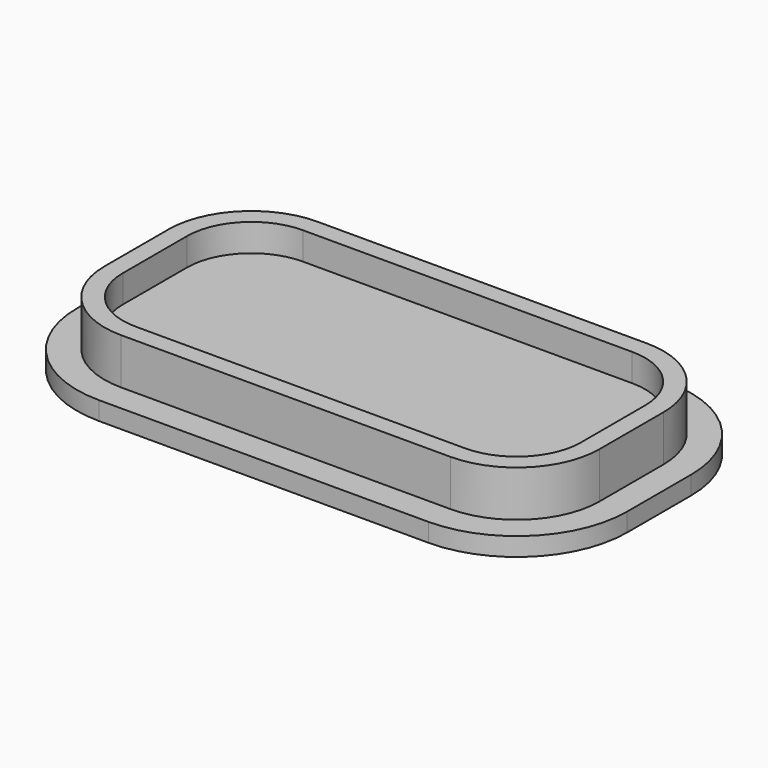
from build123d import *

# Parameters (mm, degrees)
F0_W     = 53.8
F0_H     = 26.7
F1_DEPTH = 5
F2_R     = 9
F3_T     = -2
F5_DEPTH = 2


with BuildPart() as f1:
    # F0 (on Top) → F1 (new body)
    with BuildSketch(Plane.XY):
        with Locations((-9.468303, 2.791487)):
            Rectangle(F0_W, F0_H)
    extrude(amount=F1_DEPTH)

    # F2
    f2_edges = [f1.edges().sort_by_distance(p)[0] for p in [
        (-36.368303, 16.141487, 2.5),
        (17.431697, 16.141487, 2.5),
        (17.431697, -10.558513, 2.5),
        (-36.368303, -10.558513, 2.5),
    ]]
    fillet(f2_edges, radius=F2_R)

    # F3
    f3_openings = [f1.faces().sort_by_distance(p)[0] for p in [
        (-9.468303, 2.791487, 5),
    ]]
    offset(amount=F3_T, openings=f3_openings)

    # F4 (on face) → F5 (join)
    with BuildSketch(Plane(origin=(0, 0, 0), x_dir=(1, 0, 0), z_dir=(0, 0, -1))):
        with BuildLine():
            Line((20.431697, -7.141487), (20.431697, 1.558513))
            ThreePointArc((20.431697, 1.558513), (16.916978, 10.043794), (8.431697, 13.558513))
            Line((8.431697, 13.558513), (-27.368303, 13.558513))
            ThreePointArc((-27.368303, 13.558513), (-35.853585, 10.043794), (-39.368303, 1.558513))
            Line((-39.368303, 1.558513), (-39.368303, -7.141487))
            ThreePointArc((-39.368303, -7.141487), (-35.853585, -15.626768), (-27.368303, -19.141487))
            Line((-27.368303, -19.141487), (8.431697, -19.141487))
            ThreePointArc((8.431697, -19.141487), (16.916978, -15.626768), (20.431697, -7.141487))
        make_face()
        with BuildLine():
            Line((17.431697, 1.558513), (17.431697, -7.141487))
            ThreePointArc((17.431697, -7.141487), (14.795658, -13.505448), (8.431697, -16.141487))
            Line((8.431697, -16.141487), (-27.368303, -16.141487))
            ThreePointArc((-27.368303, -16.141487), (-33.732264, -13.505448), (-36.368303, -7.141487))
            Line((-36.368303, -7.141487), (-36.368303, 1.558513))
            ThreePointArc((-36.368303, 1.558513), (-33.732264, 7.922474), (-27.368303, 10.558513))
            Line((-27.368303, 10.558513), (8.431697, 10.558513))
            ThreePointArc((8.431697, 10.558513), (14.795658, 7.922474), (17.431697, 1.558513))
        make_face(mode=Mode.SUBTRACT)
        with BuildLine():
            ThreePointArc((8.431697, -16.141487), (14.795658, -13.505448), (17.431697, -7.141487))
            Line((17.431697, -7.141487), (17.431697, 1.558513))
            ThreePointArc((17.431697, 1.558513), (14.795658, 7.922474), (8.431697, 10.558513))
            Line((8.431697, 10.558513), (-27.368303, 10.558513))
            ThreePointArc((-27.368303, 10.558513), (-33.732264, 7.922474), (-36.368303, 1.558513))
            Line((-36.368303, 1.558513), (-36.368303, -7.141487))
            ThreePointArc((-36.368303, -7.141487), (-33.732264, -13.505448), (-27.368303, -16.141487))
            Line((-27.368303, -16.141487), (8.431697, -16.141487))
        make_face()
    extrude(amount=F5_DEPTH)


solid = f1.part
